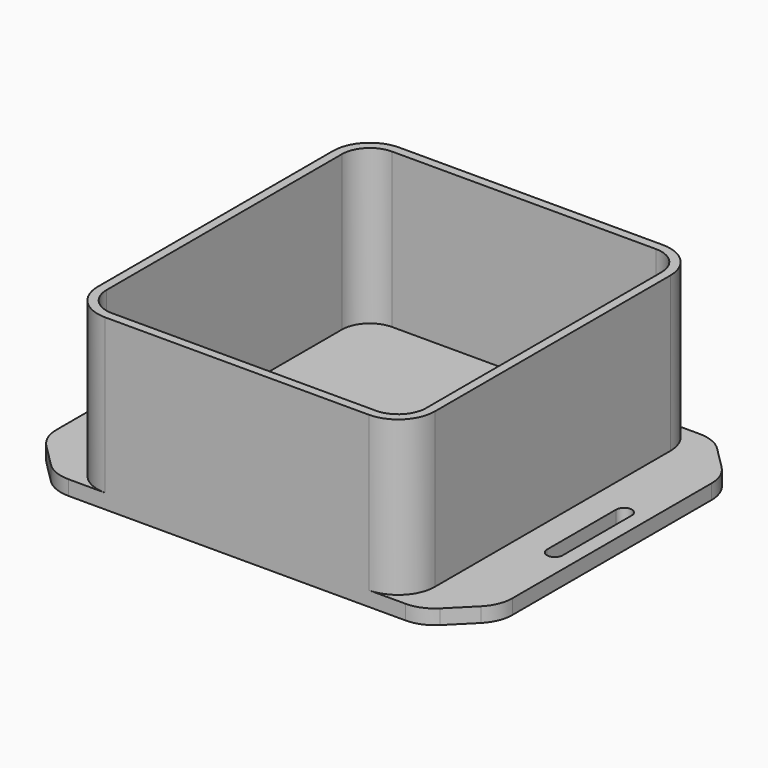
from build123d import *

# Parameters (mm, degrees)
F1_DEPTH = 2
F3_DEPTH = 21


with BuildPart() as f1:
    # F0 (on Top) → F1 (new body)
    with BuildSketch(Plane.XY):
        with BuildLine():
            Line((-60.535534, 4.535534), (-57.464466, 1.464466))
            ThreePointArc((-57.464466, 1.464466), (-55.842349, 0.380602), (-53.928932, 0))
            Line((-53.928932, 0), (-8.071068, 0))
            ThreePointArc((-8.071068, 0), (-6.157651, 0.380602), (-4.535534, 1.464466))
            Line((-4.535534, 1.464466), (-1.464466, 4.535534))
            ThreePointArc((-1.464466, 4.535534), (-0.380602, 6.157651), (0, 8.071068))
            Line((0, 8.071068), (0, 41.928932))
            ThreePointArc((0, 41.928932), (-0.380602, 43.842349), (-1.464466, 45.464466))
            Line((-1.464466, 45.464466), (-4.535534, 48.535534))
            ThreePointArc((-4.535534, 48.535534), (-6.157651, 49.619398), (-8.071068, 50))
            Line((-8.071068, 50), (-53.928932, 50))
            ThreePointArc((-53.928932, 50), (-55.842349, 49.619398), (-57.464466, 48.535534))
            Line((-57.464466, 48.535534), (-60.535534, 45.464466))
            ThreePointArc((-60.535534, 45.464466), (-61.619398, 43.842349), (-62, 41.928932))
            Line((-62, 41.928932), (-62, 8.071068))
            ThreePointArc((-62, 8.071068), (-61.619398, 6.157651), (-60.535534, 4.535534))
        make_face()
        with BuildLine():
            Line((-60, 19.118238), (-60, 30.881762))
            ThreePointArc((-60, 30.881762), (-58.930589, 31.951173), (-57.861177, 30.881762))
            Line((-57.861177, 30.881762), (-57.861177, 19.118238))
            ThreePointArc((-57.861177, 19.118238), (-58.930589, 18.048827), (-60, 19.118238))
        make_face(mode=Mode.SUBTRACT)
        with BuildLine():
            Line((-4.138823, 19.118238), (-4.138823, 30.881762))
            ThreePointArc((-4.138823, 30.881762), (-3.069411, 31.951173), (-2, 30.881762))
            Line((-2, 30.881762), (-2, 19.118238))
            ThreePointArc((-2, 19.118238), (-3.069411, 18.048827), (-4.138823, 19.118238))
        make_face(mode=Mode.SUBTRACT)
    extrude(amount=F1_DEPTH)

    # F2 (on face) → F3 (join)
    with BuildSketch(Plane.XY.offset(2)):
        with BuildLine():
            ThreePointArc((-13.071068, 0), (-9.535534, 1.464466), (-8.071068, 5))
            Line((-8.071068, 5), (-8.071068, 45))
            ThreePointArc((-8.071068, 45), (-9.535534, 48.535534), (-13.071068, 50))
            Line((-13.071068, 50), (-48.928932, 50))
            ThreePointArc((-48.928932, 50), (-52.464466, 48.535534), (-53.928932, 45))
            Line((-53.928932, 45), (-53.928932, 5))
            ThreePointArc((-53.928932, 5), (-52.464466, 1.464466), (-48.928932, 0))
            Line((-48.928932, 0), (-13.071068, 0))
        make_face()
        with BuildLine():
            Line((-9.271068, 45), (-9.271068, 5))
            ThreePointArc((-9.271068, 5), (-10.384062, 2.312995), (-13.071068, 1.200001))
            Line((-13.071068, 1.200001), (-48.928932, 1.200001))
            ThreePointArc((-48.928932, 1.200001), (-51.615938, 2.312995), (-52.728932, 5))
            Line((-52.728932, 5), (-52.728932, 45))
            ThreePointArc((-52.728932, 45), (-51.615938, 47.687005), (-48.928932, 48.799999))
            Line((-48.928932, 48.799999), (-13.071068, 48.799999))
            ThreePointArc((-13.071068, 48.799999), (-10.384062, 47.687005), (-9.271068, 45))
        make_face(mode=Mode.SUBTRACT)
    extrude(amount=F3_DEPTH)


solid = f1.part
